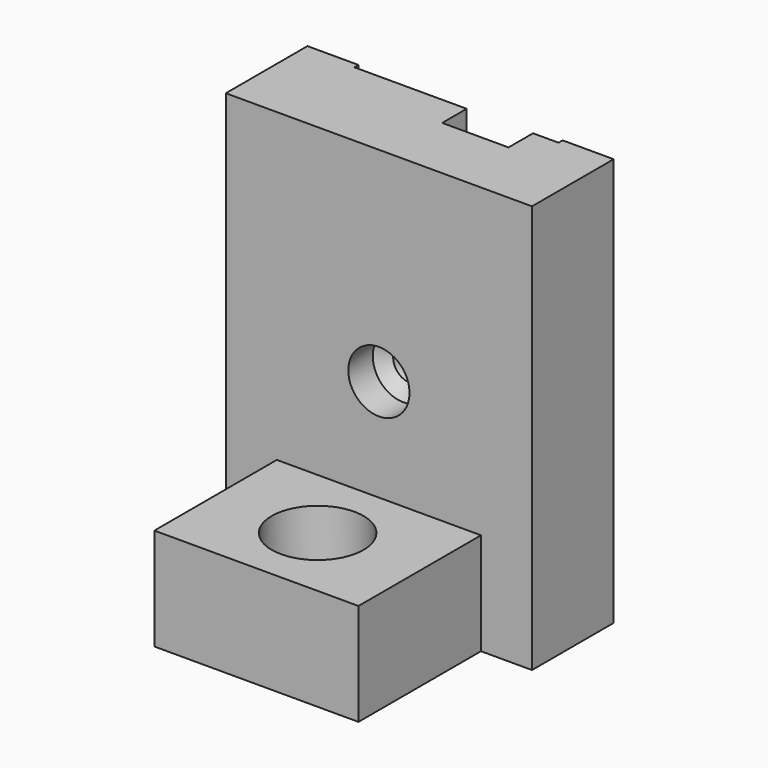
from build123d import *

# Parameters (mm, degrees)
F0_W      = 30
F0_H      = 40
F1_DEPTH  = 10
F2_W      = 20
F2_H      = 40
F3_DEPTH  = 0.5
F4_W      = 6.5
F4_H      = 10
F5_DEPTH  = 3
F6_W      = 6.5
F6_H      = 10
F7_DEPTH  = 3
F8_W      = 20
F8_H      = 10
F9_DEPTH  = 15
F11_D     = 5.5
F13_D     = 9
F13_DEPTH = 5
F13_TIP   = 2.7038727856
F15_D     = 11
F15_DEPTH = 3
F15_TIP   = 3.3047334047
F17_D     = 11
F17_DEPTH = 3
F17_TIP   = 3.3047334047
F19_D     = 3.3
F19_DEPTH = 30
F19_TIP   = 0.9914200214
F21_D     = 6
F21_DEPTH = 3
F21_TIP   = 1.8025818571


with BuildPart() as f1:
    # F0 (on Front) → F1 (new body)
    with BuildSketch(Plane.XZ):
        Rectangle(F0_W, F0_H)
    extrude(amount=F1_DEPTH)

    # F2 (on face) → F3 (cut)
    with BuildSketch(Plane(origin=(0, 0, 0), x_dir=(-1, 0, 0), z_dir=(0, 1, 0))):
        Rectangle(F2_W, F2_H)
    extrude(amount=-F3_DEPTH, mode=Mode.SUBTRACT)

    # F4 (on face) → F5 (cut)
    with BuildSketch(Plane(origin=(0, -0.5, 0), x_dir=(-1, 0, 0), z_dir=(0, 1, 0))):
        with Locations((-4.25, 15)):
            Rectangle(F4_W, F4_H)
    extrude(amount=-F5_DEPTH, mode=Mode.SUBTRACT)

    # F6 (on face) → F7 (cut)
    with BuildSketch(Plane(origin=(0, -0.5, 0), x_dir=(-1, 0, 0), z_dir=(0, 1, 0))):
        with Locations((-4.25, -15)):
            Rectangle(F6_W, F6_H)
    extrude(amount=-F7_DEPTH, mode=Mode.SUBTRACT)

    # F8 (on face) → F9 (join)
    with BuildSketch(Plane.XZ.offset(10)):
        with Locations((0, -15)):
            Rectangle(F8_W, F8_H)
    extrude(amount=F9_DEPTH)

    # F11 (through all)
    with Locations(Plane.XY.offset(-10)):
        with Locations((0, -17.5)):
            Hole(F11_D / 2)

    # F13
    with Locations(Plane.XY.offset(-10)):
        with Locations((0, -17.5)):
            Hole(F13_D / 2, depth=F13_DEPTH)
            with Locations((0, 0, -(F13_DEPTH + F13_TIP / 2))):  # 118° drill point
                Cone(0, F13_D / 2, F13_TIP, mode=Mode.SUBTRACT)

    # F15
    with Locations(Plane(origin=(0, -0.5, 0), x_dir=(-1, 0, 0), z_dir=(0, 1, 0))):
        with Locations((-4.25, 10)):
            Hole(F15_D / 2, depth=F15_DEPTH)
            with Locations((0, 0, -(F15_DEPTH + F15_TIP / 2))):  # 118° drill point
                Cone(0, F15_D / 2, F15_TIP, mode=Mode.SUBTRACT)

    # F17
    with Locations(Plane(origin=(0, -0.5, 0), x_dir=(-1, 0, 0), z_dir=(0, 1, 0))):
        with Locations((-4.25, -10)):
            Hole(F17_D / 2, depth=F17_DEPTH)
            with Locations((0, 0, -(F17_DEPTH + F17_TIP / 2))):  # 118° drill point
                Cone(0, F17_D / 2, F17_TIP, mode=Mode.SUBTRACT)

    # F19
    with Locations(Plane(origin=(0, -0.5, 0), x_dir=(-1, 0, 0), z_dir=(0, 1, 0))):
        with Locations((0, 0)):
            Hole(F19_D / 2, depth=F19_DEPTH)
            with Locations((0, 0, -(F19_DEPTH + F19_TIP / 2))):  # 118° drill point
                Cone(0, F19_D / 2, F19_TIP, mode=Mode.SUBTRACT)

    # F21
    with Locations(Plane.XZ.offset(10)):
        with Locations((0, 0)):
            Hole(F21_D / 2, depth=F21_DEPTH)
            with Locations((0, 0, -(F21_DEPTH + F21_TIP / 2))):  # 118° drill point
                Cone(0, F21_D / 2, F21_TIP, mode=Mode.SUBTRACT)


solid = f1.part
